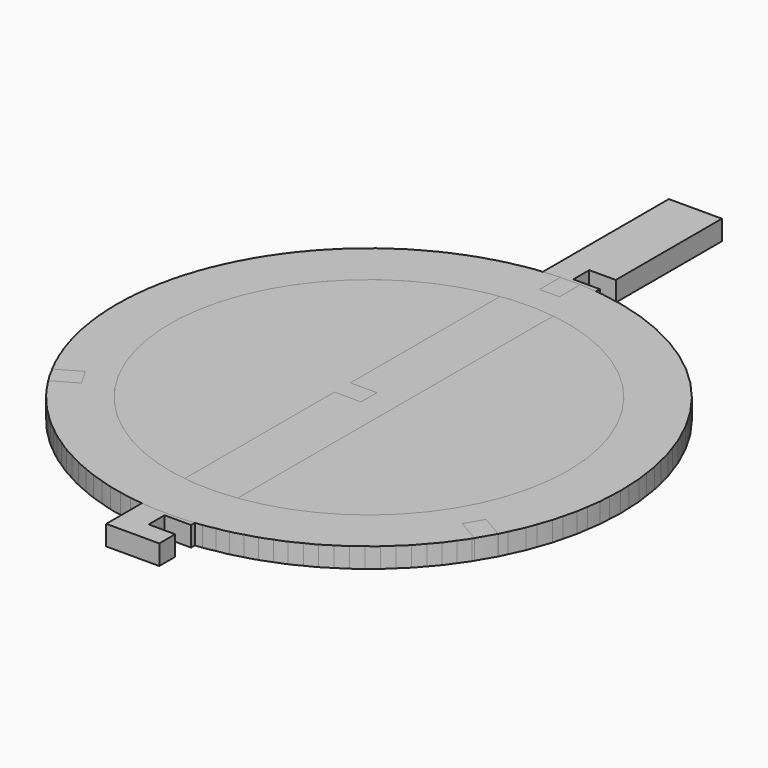
from build123d import *

# Parameters (mm, degrees)
F2_DEPTH = 3
F4_DEPTH = 3
F5_R     = 38
F6_DEPTH = 3
F7_R     = 30
F8_DEPTH = 3


with BuildPart() as f2:
    # F1 (on Top) → F2 (new body)
    with BuildSketch(Plane.XY):
        with BuildLine():
            Line((-1.5, 34), (-1.5, 37.9703831953))
            ThreePointArc((-1.5, 37.9703831953), (-32.9089653438, 19), (-33.6333164386, -17.686153492))
            Line((-33.6333164386, -17.686153492), (-30.1948637287, -15.7009618943))
            Line((-30.1948637287, -15.7009618943), (-28.6948637287, -18.2990381057))
            Line((-28.6948637287, -18.2990381057), (-32.1333164386, -20.2842297033))
            ThreePointArc((-32.1333164386, -20.2842297033), (0, -38), (32.1333164386, -20.2842297033))
            Line((32.1333164386, -20.2842297033), (28.6948637287, -18.2990381057))
            Line((28.6948637287, -18.2990381057), (30.1948637287, -15.7009618943))
            Line((30.1948637287, -15.7009618943), (33.6333164386, -17.686153492))
            ThreePointArc((33.6333164386, -17.686153492), (32.9089653438, 19), (1.5, 37.9703831953))
            Line((1.5, 37.9703831953), (1.5, 34))
            Line((1.5, 34), (-1.5, 34))
        make_face()
    extrude(amount=F2_DEPTH)


with BuildPart() as f4:
    # F3 (on Top) → F4 (new body)
    with BuildSketch(Plane.XY):
        Polygon((-4, -44.5), (4, -44.5), (4, -41.5), (0, -41.5), (0, -38.5), (4, -38.5), (4, 38.5), (0, 38.5), (0, 41.5), (4, 41.5), (4, 61.5), (-4, 61.5), (-4, 1.5), (0, 1.5), (0, -1.5), (-4, -1.5), align=None)
    extrude(amount=F4_DEPTH)


with BuildPart() as f6:
    # F5 (on Top) → F6 (new body)
    with BuildSketch(Plane.XY):
        Circle(F5_R)
        with BuildLine():
            ThreePointArc((-26.6982674329, -13.6821970489), (-25.9807612393, 15.0000015142), (-1.5, 29.9624765332))
            Line((-1.5, 29.9624765332), (-1.5, 34))
            Line((-1.5, 34), (1.5, 34))
            Line((1.5, 34), (1.5, 29.9624765332))
            ThreePointArc((1.5, 29.9624765332), (25.9807625506, 14.9999992429), (26.6982650406, -13.6822017169))
            Line((26.6982650406, -13.6822017169), (30.1948628136, -15.7009636541))
            Line((30.1948628136, -15.7009636541), (28.6948626622, -18.2990397781))
            Line((28.6948626622, -18.2990397781), (25.1982648892, -16.2802778409))
            ThreePointArc((25.1982648892, -16.2802778409), (-2.6227e-06, -30), (-25.1982677357, -16.2802734351))
            Line((-25.1982677357, -16.2802734351), (-28.6948658617, -18.2990347609))
            Line((-28.6948658617, -18.2990347609), (-30.1948655588, -15.7009583747))
            Line((-30.1948655588, -15.7009583747), (-26.6982674329, -13.6821970489))
        make_face(mode=Mode.SUBTRACT)
    extrude(amount=F6_DEPTH)


with BuildPart() as f8:
    # F7 (on Top) → F8 (new body)
    with BuildSketch(Plane.XY):
        with BuildLine():
            Line((-1.5, 34), (-1.5, 37.9703831953))
            ThreePointArc((-1.5, 37.9703831953), (-32.9089653438, 19), (-33.6333164386, -17.686153492))
            Line((-33.6333164386, -17.686153492), (-30.1948637287, -15.7009618943))
            Line((-30.1948637287, -15.7009618943), (-28.6948637287, -18.2990381057))
            Line((-28.6948637287, -18.2990381057), (-32.1333164386, -20.2842297033))
            ThreePointArc((-32.1333164386, -20.2842297033), (0, -38), (32.1333164386, -20.2842297033))
            Line((32.1333164386, -20.2842297033), (28.6948637287, -18.2990381057))
            Line((28.6948637287, -18.2990381057), (30.1948637287, -15.7009618943))
            Line((30.1948637287, -15.7009618943), (33.6333164386, -17.686153492))
            ThreePointArc((33.6333164386, -17.686153492), (32.9089653438, 19), (1.5, 37.9703831953))
            Line((1.5, 37.9703831953), (1.5, 34))
            Line((1.5, 34), (-1.5, 34))
        make_face()
        Circle(F7_R, mode=Mode.SUBTRACT)
    extrude(amount=F8_DEPTH)


solid = Compound([f2.part, f4.part, f6.part, f8.part])
